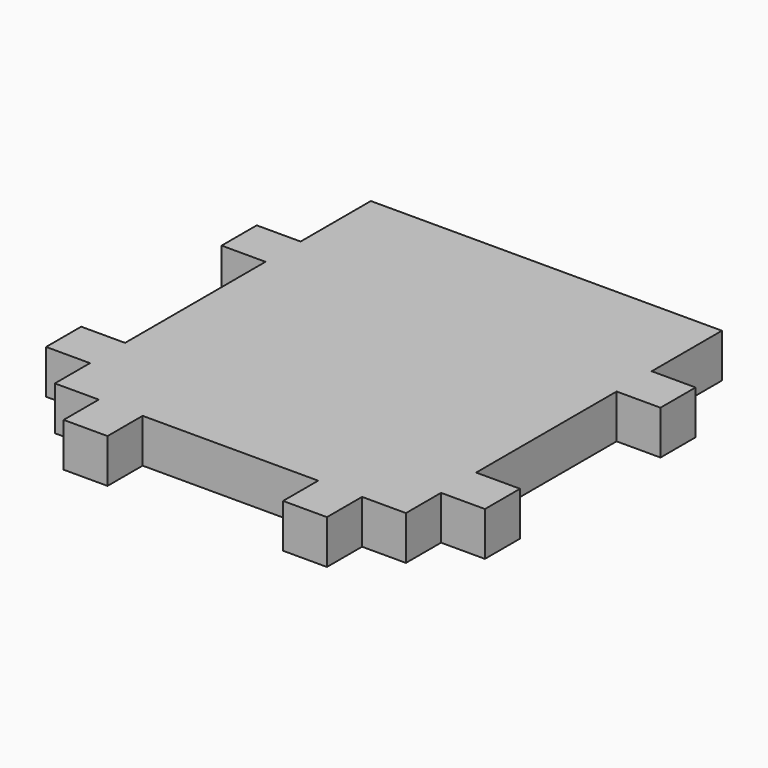
from build123d import *

# Parameters (mm, degrees)
F0_W     = 2
F0_H     = 2
F0_W_2   = 16
F0_H_2   = 16
F1_DEPTH = 2
F2_W     = 2
F2_H     = 2
F2_H_2   = 8
F2_W_2   = 8
F3_DEPTH = 25


with BuildPart() as f1:
    # F0 (on Top) → F1 (new body)
    with BuildSketch(Plane.XY):
        with Locations((-9, -9)):
            Rectangle(F0_W, F0_H)
        with Locations((0, -9)):
            Rectangle(F0_W_2, F0_H)
        with Locations((-9, 0)):
            Rectangle(F0_W, F0_H_2)
        with Locations((9, -9)):
            Rectangle(F0_W, F0_H)
        with Locations((-9, 9)):
            Rectangle(F0_W, F0_H)
        with Locations((9, 0)):
            Rectangle(F0_W, F0_H_2)
        with Locations((0, 9)):
            Rectangle(F0_W_2, F0_H)
        with Locations((9, 9)):
            Rectangle(F0_W, F0_H)
        Rectangle(F0_W_2, F0_H_2)
    extrude(amount=F1_DEPTH)

    # F2 (on face) → F3 (cut)
    with BuildSketch(Plane.XY.offset(2)):
        with Locations((-9, 9)):
            Rectangle(F2_W, F2_H)
        with Locations((-9, 7)):
            Rectangle(F2_W, F2_H)
        with Locations((-9, 0)):
            Rectangle(F2_W, F2_H_2)
        with Locations((-9, -7)):
            Rectangle(F2_W, F2_H)
        with Locations((-9, -9)):
            Rectangle(F2_W, F2_H)
        with Locations((-7, -9)):
            Rectangle(F2_W, F2_H)
        with Locations((0, -9)):
            Rectangle(F2_W_2, F2_H)
        with Locations((7, -9)):
            Rectangle(F2_W, F2_H)
        with Locations((9, -9)):
            Rectangle(F2_W, F2_H)
        with Locations((9, -7)):
            Rectangle(F2_W, F2_H)
        with Locations((9, 0)):
            Rectangle(F2_W, F2_H_2)
        with Locations((9, 7)):
            Rectangle(F2_W, F2_H)
        with Locations((9, 9)):
            Rectangle(F2_W, F2_H)
    extrude(amount=-F3_DEPTH, mode=Mode.SUBTRACT)


solid = f1.part
